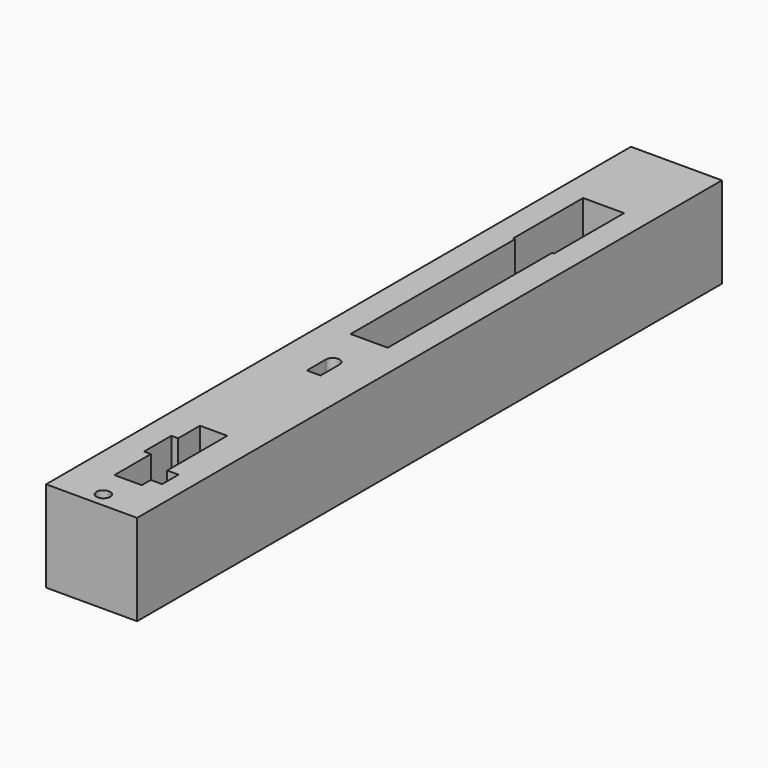
from build123d import *

# Parameters (mm, degrees)
F1_DEPTH = 50.8
F0_R     = 4.064
F0_R_2   = 2.54
F2_DEPTH = 19.05
F3_DEPTH = 6.35
F4_DEPTH = 6.35
F5_DEPTH = 6.35


with BuildPart() as f1:
    # F0 (on Top) → F1 (new body)
    with BuildSketch(Plane.XY):
        Polygon((-25.4, -71.196024), (0, -71.196024), (25.4, -71.196024), (25.4, 336.854976), (-25.4, 336.854976), align=None)
        with BuildLine():
            ThreePointArc((3.81, -62.988114), (-2.694077, -65.682191), (0, -59.178114))
            ThreePointArc((0, -59.178114), (2.694077, -60.294037), (3.81, -62.988114))
        make_face(mode=Mode.SUBTRACT)
        Polygon((7.677816, -45.796024), (0.061908, -45.796024), (0.005436, -45.796024), (-7.562184, -45.796024), (-7.562184, -20.396024), (-11.372184, -20.396024), (-11.372184, -1.346024), (-7.562184, -1.346024), (-7.562184, 13.893976), (0.029683, 13.893976), (7.677816, 13.893976), (7.677816, -28.063114), (14.027816, -28.063114), (14.027816, -39.493114), (7.677816, -39.493114), align=None, mode=Mode.SUBTRACT)
        with BuildLine():
            Line((3.871908, 83.696873), (0.058039, 83.696873))
            Line((0.058039, 83.696873), (-3.748092, 83.696873))
            Line((-3.748092, 83.696873), (-3.748092, 97.031873))
            ThreePointArc((-3.748092, 97.031873), (0.061908, 100.841873), (3.871908, 97.031873))
            Line((3.871908, 97.031873), (3.871908, 83.696873))
        make_face(mode=Mode.SUBTRACT)
        Polygon((10.3505, 122.478976), (0, 122.478976), (-10.3505, 122.478976), (-10.3505, 237.159976), (-11.43, 237.159976), (-11.43, 286.054976), (0, 286.054976), (11.43, 286.054976), (11.43, 237.159976), (10.3505, 237.159976), align=None, mode=Mode.SUBTRACT)
    extrude(amount=F1_DEPTH)

    # F0 (on Top) → F2 (join)
    with BuildSketch(Plane.XY):
        Polygon((-11.43, 237.159976), (-10.3505, 237.159976), (10.3505, 237.159976), (11.43, 237.159976), (11.43, 286.054976), (0, 286.054976), (-11.43, 286.054976), align=None)
        with Locations((0, 243.509976)):
            Circle(F0_R, mode=Mode.SUBTRACT)
        with Locations((0, 259.511976)):
            Circle(F0_R_2, mode=Mode.SUBTRACT)
    extrude(amount=F2_DEPTH)

    # F0 (on Top) → F3 (join)
    with BuildSketch(Plane.XY):
        Polygon((0.005436, -45.796024), (0.061908, -45.796024), (7.677816, -45.796024), (7.677816, -39.493114), (14.027816, -39.493114), (14.027816, -28.063114), (7.677816, -28.063114), (7.677816, 13.893976), (0.029683, 13.893976), align=None)
    extrude(amount=F3_DEPTH)

    # F0 (on Top) → F4 (join)
    with BuildSketch(Plane.XY):
        Polygon((-7.562184, -45.796024), (0.005436, -45.796024), (0.029683, 13.893976), (-7.562184, 13.893976), (-7.562184, -1.346024), (-11.372184, -1.346024), (-11.372184, -20.396024), (-7.562184, -20.396024), align=None)
    extrude(amount=F4_DEPTH)

    # F0 (on Top) → F5 (join)
    with BuildSketch(Plane.XY):
        Polygon((0.005436, -45.796024), (0.061908, -45.796024), (7.677816, -45.796024), (7.677816, -39.493114), (14.027816, -39.493114), (14.027816, -28.063114), (7.677816, -28.063114), (7.677816, 13.893976), (0.029683, 13.893976), align=None)
    extrude(amount=F5_DEPTH)


solid = f1.part
